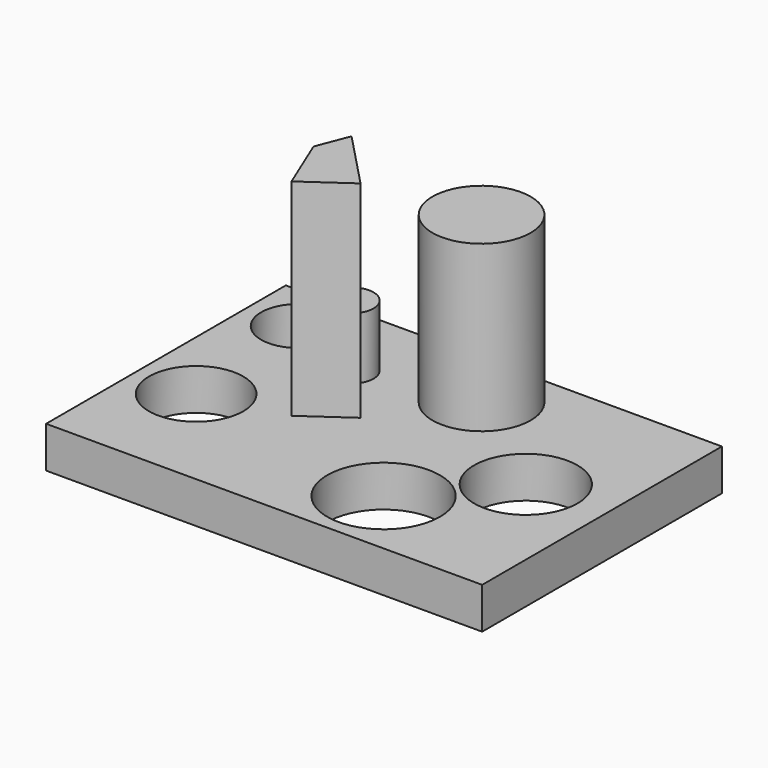
from build123d import *

# Parameters (mm, degrees)
F1_DEPTH = 60
F2_DEPTH = 25
F0_W     = 105.667732
F0_H     = 72.615263
F0_R     = 11.419882
F0_R_2   = 13.662159
F0_R_3   = 9.028208
F0_R_4   = 12.522377
F0_R_5   = 11.895855
F3_DEPTH = 10
F0_R_6   = 1.784712
F4_DEPTH = 50
F5_DEPTH = 25
F6_DEPTH = 25


with BuildPart() as f1:
    # F0 (on Top) → F1 (new body)
    with BuildSketch(Plane.XY):
        Polygon((-9.727011, 17.693468), (-13.396265, 21.534182), (-15.313769, 16.580629), (-16.401034, 13.77186), (-10.718366, 0), (0, 7.511924), align=None)
    extrude(amount=F1_DEPTH)

    # F0 (on Top) → F2 (join)
    with BuildSketch(Plane.XY):
        with BuildLine():
            Line((-15.313769, 16.580629), (-13.396265, 21.534182))
            Line((-13.396265, 21.534182), (-9.727011, 17.693468))
            ThreePointArc((-9.727011, 17.693468), (-14.433935, 26.743573), (-15.313769, 16.580629))
        make_face()
    extrude(amount=F2_DEPTH)

    # F0 (on Top) → F3 (join)
    with BuildSketch(Plane.XY):
        with Locations((7.88752, 4.757551)):
            Rectangle(F0_W, F0_H)
        with Locations((-30.423293, -4.256757)):
            Circle(F0_R, mode=Mode.SUBTRACT)
        with Locations((23.412162, -14.77345)):
            Circle(F0_R_2, mode=Mode.SUBTRACT)
        with BuildLine():
            Line((-16.401034, 13.77186), (-15.313769, 16.580629))
            ThreePointArc((-15.313769, 16.580629), (-14.433935, 26.743573), (-9.727011, 17.693468))
            Line((-9.727011, 17.693468), (0, 7.511924))
            Line((0, 7.511924), (-10.718366, 0))
            Line((-10.718366, 0), (-16.401034, 13.77186))
        make_face(mode=Mode.SUBTRACT)
        with Locations((-32.676868, 29.5469)):
            Circle(F0_R_3, mode=Mode.SUBTRACT)
        with Locations((41.440781, 5.759142)):
            Circle(F0_R_4, mode=Mode.SUBTRACT)
        with Locations((13.89706, 26.792528)):
            Circle(F0_R_5, mode=Mode.SUBTRACT)
    extrude(amount=F3_DEPTH)

    # F0 (on Top) → F4 (join)
    with BuildSketch(Plane.XY):
        with Locations((13.89706, 26.792528)):
            Circle(F0_R_5)
        with Locations((6.595331, 27.143202)):
            Circle(F0_R_6, mode=Mode.SUBTRACT)
        with Locations((10.773938, 20.183116)):
            Circle(F0_R_6, mode=Mode.SUBTRACT)
        with Locations((18.716843, 21.296355)):
            Circle(F0_R_6, mode=Mode.SUBTRACT)
        with Locations((21.027262, 28.404499)):
            Circle(F0_R_6, mode=Mode.SUBTRACT)
        with Locations((13.482664, 34.090918)):
            Circle(F0_R_6, mode=Mode.SUBTRACT)
        with Locations((13.482664, 34.090918)):
            Circle(F0_R_6)
        with Locations((6.595331, 27.143202)):
            Circle(F0_R_6)
        with Locations((10.773938, 20.183116)):
            Circle(F0_R_6)
        with Locations((18.716843, 21.296355)):
            Circle(F0_R_6)
        with Locations((21.027262, 28.404499)):
            Circle(F0_R_6)
    extrude(amount=F4_DEPTH)

    # F0 (on Top) → F5 (join)
    with BuildSketch(Plane.XY):
        with Locations((10.773938, 20.183116)):
            Circle(F0_R_6)
    extrude(amount=-F5_DEPTH)

    # F0 (on Top) → F6 (cut)
    with BuildSketch(Plane.XY):
        with Locations((21.027262, 28.404499)):
            Circle(F0_R_6)
    extrude(amount=F6_DEPTH, mode=Mode.SUBTRACT)


solid = f1.part
